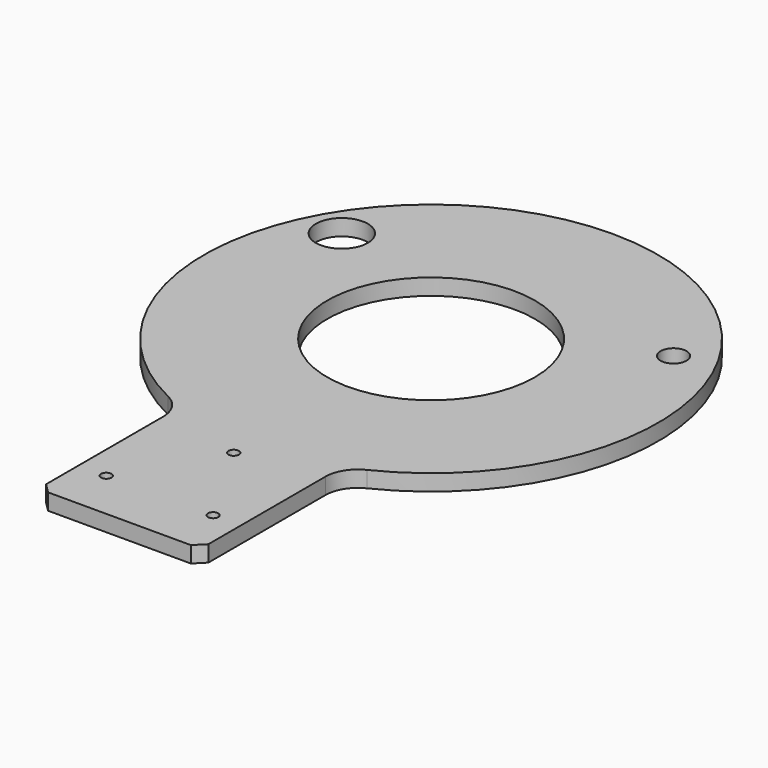
from build123d import *

# Parameters (mm, degrees)
F0_R     = 1.6
F0_R_2   = 8
F0_R_3   = 32
F0_R_4   = 4
F1_DEPTH = 5
F2_SIZE  = 3


with BuildPart() as f1:
    # F0 (on Top) → F1 (new body)
    with BuildSketch(Plane.XY):
        with BuildLine():
            Line((25, -120), (25, -71.937473))
            ThreePointArc((25, -71.937473), (26.522088, -66.634172), (30.625, -62.945289))
            ThreePointArc((30.625, -62.945289), (0, 70), (-30.625, -62.945289))
            ThreePointArc((-30.625, -62.945289), (-26.522088, -66.634172), (-25, -71.937473))
            Line((-25, -71.937473), (-25, -120))
            Line((-25, -120), (25, -120))
        make_face()
        with Locations((-16.454483, -104.5)):
            Circle(F0_R, mode=Mode.SUBTRACT)
        with Locations((16.454483, -104.5)):
            Circle(F0_R, mode=Mode.SUBTRACT)
        with Locations((0, -76)):
            Circle(F0_R, mode=Mode.SUBTRACT)
        with Locations((-51.095499, 29.5)):
            Circle(F0_R_2, mode=Mode.SUBTRACT)
        Circle(F0_R_3, mode=Mode.SUBTRACT)
        with Locations((51.095499, 29.5)):
            Circle(F0_R_4, mode=Mode.SUBTRACT)
    extrude(amount=F1_DEPTH)

    # F2
    f2_edges = [f1.edges().sort_by_distance(p)[0] for p in [
        (25, -120, 2.5),
        (-25, -120, 2.5),
    ]]
    chamfer(f2_edges, length=F2_SIZE)


solid = f1.part
